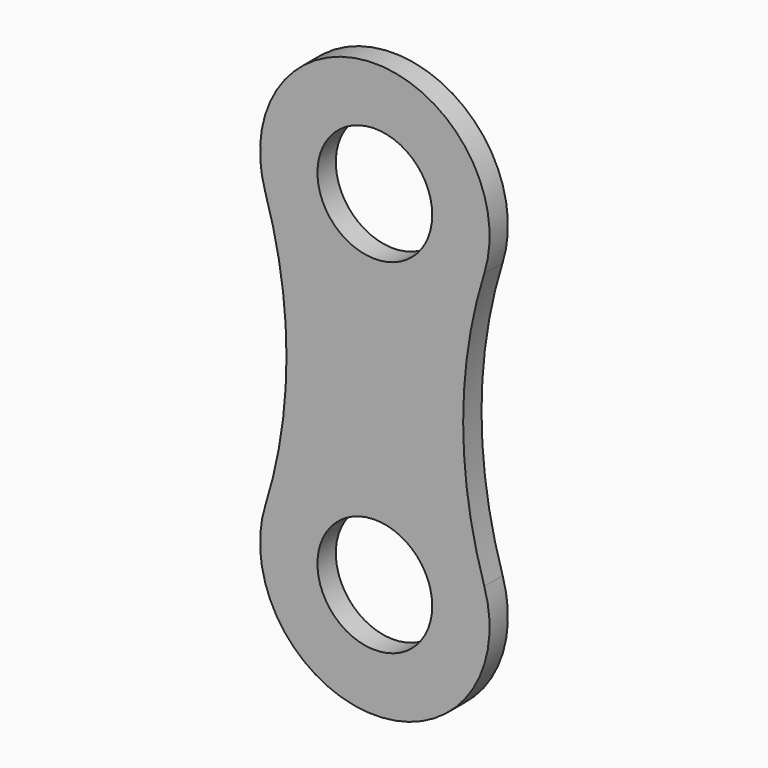
from build123d import *

# Parameters (mm, degrees)
F0_R     = 63.5
F1_DEPTH = 25.4


with BuildPart() as f1:
    # F0 (on Front) → F1 (new body)
    with BuildSketch(Plane.XZ):
        with BuildLine():
            ThreePointArc((121.150279, -152.4), (97.751393, 0), (121.150279, 152.4))
            ThreePointArc((121.150279, 152.4), (0, 317.5), (-121.150279, 152.4))
            ThreePointArc((-121.150279, 152.4), (-97.751393, 0), (-121.150279, -152.4))
            ThreePointArc((-121.150279, -152.4), (0, -317.5), (121.150279, -152.4))
        make_face()
        with Locations((0, -190.5)):
            Circle(F0_R, mode=Mode.SUBTRACT)
        with Locations((0, 190.5)):
            Circle(F0_R, mode=Mode.SUBTRACT)
    extrude(amount=F1_DEPTH)


solid = f1.part
